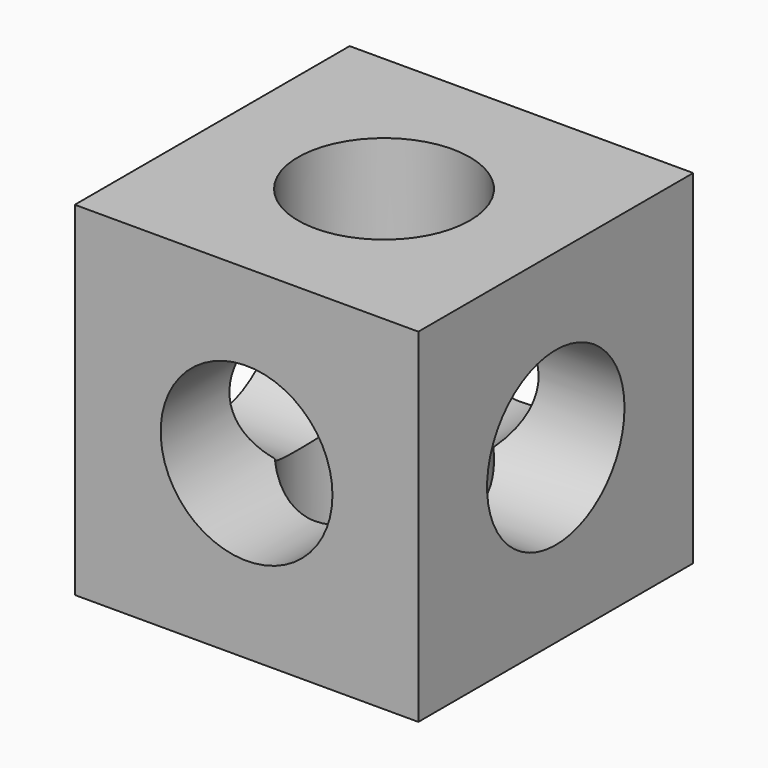
from build123d import *

# Parameters (mm, degrees)
F0_W     = 63.5
F0_H     = 63.5
F1_DEPTH = 63.5
F2_R     = 31.75
F3_DEPTH = 127.001
F4_R     = 31.75
F5_DEPTH = 127.001
F6_R     = 31.75
F7_DEPTH = 127.001


with BuildPart() as f1:
    # F0 (on Top) → F1 (new body, symmetric)
    with BuildSketch(Plane.XY):
        with Locations((-31.75, 31.75)):
            Rectangle(F0_W, F0_H)
        with Locations((-31.75, -31.75)):
            Rectangle(F0_W, F0_H)
        with Locations((31.75, -31.75)):
            Rectangle(F0_W, F0_H)
        with Locations((-31.75, 31.75)):
            Rectangle(F0_W, F0_H)
        with Locations((31.75, 31.75)):
            Rectangle(F0_W, F0_H)
    extrude(amount=F1_DEPTH, both=True)

    # F2 (on face) → F3 (cut, through all)
    with BuildSketch(Plane.YZ.offset(63.5)):
        Circle(F2_R)
    extrude(amount=-F3_DEPTH, mode=Mode.SUBTRACT)

    # F4 (on face) → F5 (cut, through all)
    with BuildSketch(Plane.XZ.offset(63.5)):
        Circle(F4_R)
    extrude(amount=-F5_DEPTH, mode=Mode.SUBTRACT)

    # F6 (on face) → F7 (cut, through all)
    with BuildSketch(Plane.XY.offset(63.5)):
        Circle(F6_R)
    extrude(amount=-F7_DEPTH, mode=Mode.SUBTRACT)


solid = f1.part
